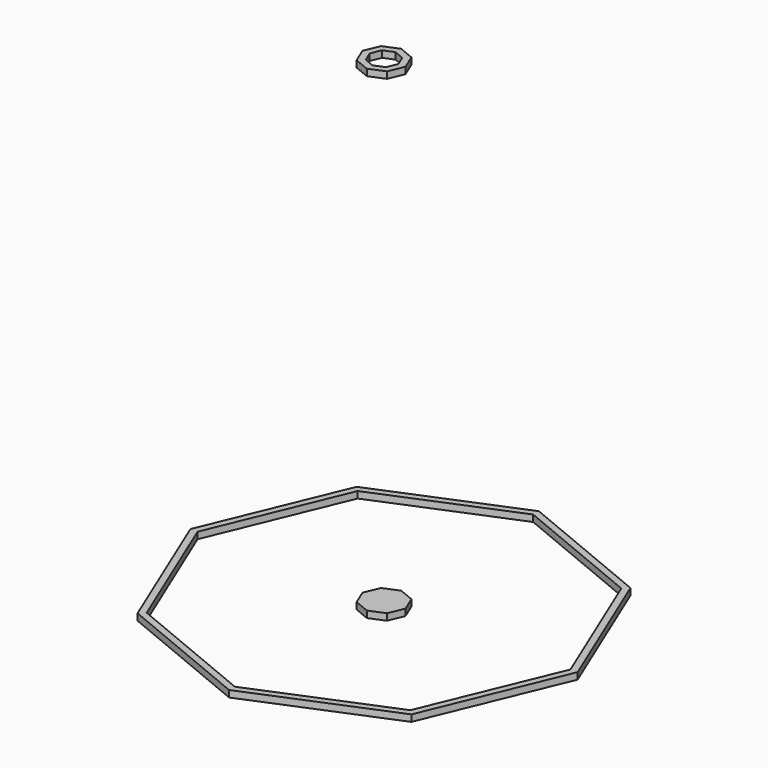
from build123d import *

# Parameters (mm, degrees)
F1_DEPTH = 50.8
F4_DEPTH = 50.8
F6_DEPTH = 50.8


with BuildPart() as f1:
    # F0 (on Top) → F1 (new body)
    with BuildSketch(Plane.XY):
        Polygon((1049.777192, -1049.777192), (1484.609142, 0), (1049.777192, 1049.777192), (0, 1484.609142), (-1049.777192, 1049.777192), (-1484.609142, 0), (-1049.777192, -1049.777192), (0, -1484.609142), align=None)
        Polygon((-1010.896596, -1010.896596), (-1429.623677, 0), (-1010.896596, 1010.896596), (0, 1429.623677), (1010.896596, 1010.896596), (1429.623677, 0), (1010.896596, -1010.896596), (0, -1429.623677), align=None, mode=Mode.SUBTRACT)
    extrude(amount=F1_DEPTH)


with BuildPart() as f4:
    # F3 (on offset) → F4 (new body)
    with BuildSketch(Plane.XY.offset(3657.6)):
        Polygon((116.64191, -116.64191), (164.956571, 0), (116.64191, 116.64191), (0, 164.956571), (-116.64191, 116.64191), (-164.956571, 0), (-116.64191, -116.64191), (0, -164.956571), align=None)
        Polygon((-77.761273, -77.761273), (-109.971048, 0), (-77.761273, 77.761273), (0, 109.971048), (77.761273, 77.761273), (109.971048, 0), (77.761273, -77.761273), (0, -109.971048), align=None, mode=Mode.SUBTRACT)
    extrude(amount=F4_DEPTH)


with BuildPart() as f6:
    # F5 (on Top) → F6 (new body)
    with BuildSketch(Plane.XY):
        Polygon((116.64191, -116.64191), (164.956571, 0), (116.64191, 116.64191), (0, 164.956571), (-116.64191, 116.64191), (-164.956571, 0), (-116.64191, -116.64191), (0, -164.956571), align=None)
    extrude(amount=F6_DEPTH)


solid = Compound([f1.part, f4.part, f6.part])
